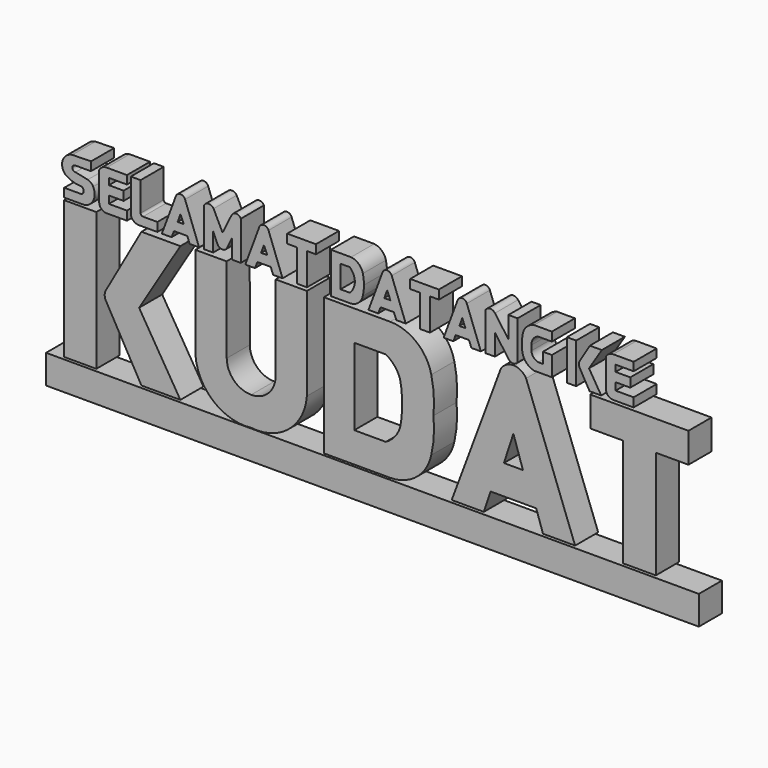
from build123d import *

# Parameters (mm, degrees)
F0_W     = 678.609132
F0_H     = 2916.155696
F1_DEPTH = 609.6
F2_W     = 13791.792393
F2_H     = 609.6
F3_DEPTH = 609.6
F4_W     = 195.712566
F4_H     = 849.251985
F5_DEPTH = 609.6


with BuildPart() as f1:
    # F0 (on Front) → F1 (new body)
    with BuildSketch(Plane.XZ):
        with Locations((-3908.644557, 276.817501)):
            Rectangle(F0_W, F0_H)
        with BuildLine():
            Line((-3366.346836, 151.635244), (-2615.553379, -1181.260347))
            Line((-2615.553379, -1181.260347), (-1793.18583, -1181.260347))
            Line((-1793.18583, -1181.260347), (-2665.179014, 248.686131))
            Line((-2665.179014, 248.686131), (-1793.18583, 1678.632609))
            Line((-1793.18583, 1678.632609), (-2615.553379, 1678.632609))
            Line((-2615.553379, 1678.632609), (-3366.346836, 345.737018))
            ThreePointArc((-3366.346836, 345.737018), (-3391.800139, 248.686131), (-3366.346836, 151.635244))
        make_face()
        with BuildLine():
            Line((879.752576, -240.622833), (879.752576, 1714.225769))
            Line((879.752576, 1714.225769), (218.23296, 1714.225769))
            Line((218.23296, 1714.225769), (218.23296, -87.552883))
            ThreePointArc((218.23296, -87.552883), (67.10783, -450.832205), (-297.087213, -599.737013))
            ThreePointArc((-297.087213, -599.737013), (-661.494143, -451.351503), (-813.136962, -88.287974))
            Line((-813.136962, -88.287974), (-815.705334, 1713.488847))
            Line((-815.705334, 1713.488847), (-1477.224279, 1712.545874))
            Line((-1477.224279, 1712.545874), (-1474.437711, -242.300742))
            ThreePointArc((-1474.437711, -242.300742), (-1093.128933, -979.705324), (-296.649577, -1213.762017))
            ThreePointArc((-296.649577, -1213.762017), (499.495331, -978.570208), (879.752576, -240.622833))
        make_face()
        with BuildLine():
            Line((1236.831784, 1714.225769), (1236.831784, -1188.639283))
            Line((1236.831784, -1188.639283), (2637.341022, -1188.639283))
            ThreePointArc((2637.341022, -1188.639283), (3197.163509, -990.660233), (3508.059978, -484.754801))
            ThreePointArc((3508.059978, -484.754801), (3561.917515, -112.886571), (3554.755688, 262.793243))
            ThreePointArc((3554.755688, 262.793243), (3561.917515, 638.473057), (3508.059978, 1010.341287))
            ThreePointArc((3508.059978, 1010.341287), (3197.163509, 1516.246718), (2637.341022, 1714.225769))
            Line((2637.341022, 1714.225769), (1236.831784, 1714.225769))
        make_face()
        with BuildLine():
            ThreePointArc((2889.63598, 262.793243), (2882.481981, 35.581484), (2849.133015, -189.283386))
            ThreePointArc((2849.133015, -189.283386), (2732.39236, -397.606673), (2548.7957, -550.313056))
            Line((2548.7957, -550.313056), (1880.977988, -550.313056))
            Line((1880.977988, -550.313056), (1880.977988, 1075.899541))
            Line((1880.977988, 1075.899541), (2548.7957, 1075.899541))
            ThreePointArc((2548.7957, 1075.899541), (2732.39236, 923.193159), (2849.133015, 714.869872))
            ThreePointArc((2849.133015, 714.869872), (2882.481981, 490.005002), (2889.63598, 262.793243))
        make_face(mode=Mode.SUBTRACT)
        with BuildLine():
            Line((4618.441582, -1179.439783), (4761.306763, -753.343284))
            Line((4761.306763, -753.343284), (5725.646973, -753.343284))
            Line((5725.646973, -753.343284), (5868.512154, -1179.439783))
            Line((5868.512154, -1179.439783), (6547.121525, -1179.439783))
            Line((6547.121525, -1179.439783), (5511.349201, 1595.393896))
            ThreePointArc((5511.349201, 1595.393896), (5243.476868, 1750.866842), (4975.604534, 1595.393896))
            Line((4975.604534, 1595.393896), (3939.832211, -1179.439783))
            Line((3939.832211, -1179.439783), (4618.441582, -1179.439783))
        make_face()
        Polygon((5042.622089, -133.183539), (5243.476868, 479.15107), (5444.331646, -133.183539), (5243.476868, -133.183539), align=None, mode=Mode.SUBTRACT)
        Polygon((6867.648602, 1103.121996), (7558.076859, 1103.121996), (7558.076859, -1179.439783), (8251.819611, -1179.439783), (8251.819611, 1103.121996), (8942.247868, 1103.121996), (8942.247868, 1734.895349), (6867.648602, 1734.895349), align=None)
    extrude(amount=F1_DEPTH)


with BuildPart() as f3:
    # F2 (on Front) → F3 (new body)
    with BuildSketch(Plane.XZ):
        with Locations((2265.519857, -1532.571435)):
            Rectangle(F2_W, F2_H)
    extrude(amount=F3_DEPTH)


with BuildPart() as f5:
    # F4 (on Front) → F5 (new body)
    with BuildSketch(Plane.XZ):
        with BuildLine():
            Line((-3683.773518, 2457.029343), (-3679.213762, 2642.457485))
            Line((-3679.213762, 2642.457485), (-4075.94988, 2633.113861))
            ThreePointArc((-4075.94988, 2633.113861), (-4280.386481, 2465.021605), (-4212.825775, 2209.121466))
            ThreePointArc((-4212.825775, 2209.121466), (-4054.076023, 2135.77447), (-3881.351948, 2108.431101))
            ThreePointArc((-3881.351948, 2108.431101), (-3834.39266, 2037.498772), (-3881.351948, 1966.566443))
            Line((-3881.351948, 1966.566443), (-4246.760845, 1966.566443))
            Line((-4246.760845, 1966.566443), (-4246.760845, 1783.861876))
            Line((-4246.760845, 1783.861876), (-3846.960306, 1783.861876))
            ThreePointArc((-3846.960306, 1783.861876), (-3771.86045, 1799.727814), (-3705.095768, 1837.598562))
            ThreePointArc((-3705.095768, 1837.598562), (-3609.604943, 1998.486498), (-3636.312723, 2183.662415))
            ThreePointArc((-3636.312723, 2183.662415), (-3681.536077, 2245.089005), (-3750.234365, 2278.239012))
            Line((-3750.234365, 2278.239012), (-4009.032249, 2332.397461))
            ThreePointArc((-4009.032249, 2332.397461), (-4075.94988, 2392.34846), (-4013.592243, 2457.029343))
            Line((-4013.592243, 2457.029343), (-3683.773518, 2457.029343))
        make_face()
        with BuildLine():
            Line((-2921.702862, 2457.029343), (-2921.702862, 2633.113861))
            Line((-2921.702862, 2633.113861), (-3351.063013, 2633.113861))
            ThreePointArc((-3351.063013, 2633.113861), (-3441.885594, 2608.113552), (-3507.120132, 2540.156126))
            Line((-3507.120132, 2540.156126), (-3507.120132, 1919.949055))
            ThreePointArc((-3507.120132, 1919.949055), (-3455.978602, 1822.766257), (-3353.282928, 1783.861876))
            Line((-3353.282928, 1783.861876), (-2921.702862, 1783.861876))
            Line((-2921.702862, 1783.861876), (-2921.702862, 1972.799897))
            Line((-2921.702862, 1972.799897), (-3303.558588, 1972.799897))
            Line((-3303.558588, 1972.799897), (-3303.558588, 2129.710913))
            Line((-3303.558588, 2129.710913), (-2991.886139, 2129.710913))
            Line((-2991.886139, 2129.710913), (-2991.886139, 2321.013451))
            Line((-2991.886139, 2321.013451), (-3303.558588, 2321.013451))
            Line((-3303.558588, 2321.013451), (-3303.558588, 2457.029343))
            Line((-3303.558588, 2457.029343), (-2921.702862, 2457.029343))
        make_face()
        with BuildLine():
            Line((-2632.838011, 2633.113861), (-2839.544535, 2633.113861))
            Line((-2839.544535, 2633.113861), (-2839.544535, 1914.986849))
            ThreePointArc((-2839.544535, 1914.986849), (-2776.133583, 1820.407497), (-2668.288231, 1783.861876))
            Line((-2668.288231, 1783.861876), (-2277.902126, 1783.861876))
            Line((-2277.902126, 1783.861876), (-2277.902126, 1970.519423))
            Line((-2277.902126, 1970.519423), (-2583.126307, 1970.519423))
            ThreePointArc((-2583.126307, 1970.519423), (-2618.209222, 1984.362227), (-2632.838011, 2019.124746))
            Line((-2632.838011, 2019.124746), (-2632.838011, 2633.113861))
        make_face()
        with BuildLine():
            Line((-1887.942195, 2578.846693), (-2184.456587, 1783.861876))
            Line((-2184.456587, 1783.861876), (-1979.963899, 1783.861876))
            Line((-1979.963899, 1783.861876), (-1928.840756, 1914.986849))
            Line((-1928.840756, 1914.986849), (-1647.663116, 1914.986849))
            Line((-1647.663116, 1914.986849), (-1596.539974, 1783.861876))
            Line((-1596.539974, 1783.861876), (-1397.159457, 1783.861876))
            Line((-1397.159457, 1783.861876), (-1693.673968, 2578.846693))
            ThreePointArc((-1693.673968, 2578.846693), (-1790.808082, 2646.288073), (-1887.942195, 2578.846693))
        make_face()
        Polygon((-1849.929214, 2110.574421), (-1790.808082, 2276.072979), (-1720.937079, 2110.574421), align=None, mode=Mode.SUBTRACT)
        with BuildLine():
            Line((-1293.296933, 2604.823828), (-1293.296933, 1783.861876))
            Line((-1293.296933, 1783.861876), (-1099.845052, 1783.861876))
            Line((-1099.845052, 1783.861876), (-1099.845052, 2178.771496))
            Line((-1099.845052, 2178.771496), (-1007.979631, 1970.519423))
            ThreePointArc((-1007.979631, 1970.519423), (-906.146258, 1904.139548), (-804.312885, 1970.519423))
            Line((-804.312885, 1970.519423), (-703.320384, 2178.771496))
            Line((-703.320384, 2178.771496), (-703.320384, 1782.01139))
            Line((-703.320384, 1782.01139), (-514.961064, 1782.01139))
            Line((-514.961064, 1782.01139), (-514.961064, 2604.823828))
            ThreePointArc((-514.961064, 2604.823828), (-613.37322, 2666.025174), (-711.785376, 2604.823828))
            Line((-711.785376, 2604.823828), (-902.322352, 2218.385458))
            Line((-902.322352, 2218.385458), (-1091.068625, 2604.823828))
            ThreePointArc((-1091.068625, 2604.823828), (-1192.182779, 2660.731088), (-1293.296933, 2604.823828))
        make_face()
        Polygon((464.022815, 2457.304001), (667.069554, 2457.304001), (667.069554, 1782.01139), (881.786942, 1782.01139), (881.786942, 2457.304001), (1070.94276, 2457.304001), (1070.94276, 2645.516157), (464.022815, 2645.516157), align=None)
        with BuildLine():
            Line((-124.675372, 2576.922927), (-421.189764, 1781.938109))
            Line((-421.189764, 1781.938109), (-216.697076, 1781.938109))
            Line((-216.697076, 1781.938109), (-165.573934, 1913.063083))
            Line((-165.573934, 1913.063083), (115.603706, 1913.063083))
            Line((115.603706, 1913.063083), (166.726849, 1781.938109))
            Line((166.726849, 1781.938109), (366.107366, 1781.938109))
            Line((366.107366, 1781.938109), (69.592854, 2576.922927))
            ThreePointArc((69.592854, 2576.922927), (-27.541259, 2644.364307), (-124.675372, 2576.922927))
        make_face()
        Polygon((-86.662391, 2108.650655), (-27.541259, 2274.149213), (42.329744, 2108.650655), align=None, mode=Mode.SUBTRACT)
        with BuildLine():
            Line((1814.000249, 2646.043777), (1387.090921, 2646.043777))
            Line((1387.090921, 2646.043777), (1387.090921, 1782.01139))
            Line((1387.090921, 1782.01139), (1814.000249, 1782.01139))
            ThreePointArc((1814.000249, 1782.01139), (1973.739158, 1853.606115), (2061.742306, 2004.926205))
            ThreePointArc((2061.742306, 2004.926205), (2079.62756, 2108.780007), (2084.960699, 2214.027584))
            ThreePointArc((2084.960699, 2214.027584), (2079.62756, 2319.27516), (2061.742306, 2423.128963))
            ThreePointArc((2061.742306, 2423.128963), (1973.739158, 2574.449053), (1814.000249, 2646.043777))
        make_face()
        with BuildLine():
            Line((1590.371013, 1975.717902), (1590.371013, 2214.027584))
            Line((1590.371013, 2214.027584), (1590.371013, 2452.337265))
            Line((1590.371013, 2452.337265), (1786.438346, 2452.337265))
            ThreePointArc((1786.438346, 2452.337265), (1864.515897, 2344.10508), (1894.351363, 2214.027584))
            ThreePointArc((1894.351363, 2214.027584), (1864.515897, 2083.950088), (1786.438346, 1975.717902))
            Line((1786.438346, 1975.717902), (1590.371013, 1975.717902))
        make_face(mode=Mode.SUBTRACT)
        with BuildLine():
            Line((7783.498764, 2465.106249), (7783.498764, 2641.190767))
            Line((7783.498764, 2641.190767), (7354.138613, 2641.190767))
            ThreePointArc((7354.138613, 2641.190767), (7263.316032, 2616.190458), (7198.081493, 2548.233032))
            Line((7198.081493, 2548.233032), (7198.081493, 1928.025961))
            ThreePointArc((7198.081493, 1928.025961), (7249.223024, 1830.843163), (7351.918697, 1791.938782))
            Line((7351.918697, 1791.938782), (7783.498764, 1791.938782))
            Line((7783.498764, 1791.938782), (7783.498764, 1980.876803))
            Line((7783.498764, 1980.876803), (7401.643038, 1980.876803))
            Line((7401.643038, 1980.876803), (7401.643038, 2137.787819))
            Line((7401.643038, 2137.787819), (7713.315487, 2137.787819))
            Line((7713.315487, 2137.787819), (7713.315487, 2329.090357))
            Line((7713.315487, 2329.090357), (7401.643038, 2329.090357))
            Line((7401.643038, 2329.090357), (7401.643038, 2465.106249))
            Line((7401.643038, 2465.106249), (7783.498764, 2465.106249))
        make_face()
        with BuildLine():
            Line((2478.46067, 2581.276655), (2181.946278, 1786.291838))
            Line((2181.946278, 1786.291838), (2386.438966, 1786.291838))
            Line((2386.438966, 1786.291838), (2437.562108, 1917.416811))
            Line((2437.562108, 1917.416811), (2718.739748, 1917.416811))
            Line((2718.739748, 1917.416811), (2769.86289, 1786.291838))
            Line((2769.86289, 1786.291838), (2969.243407, 1786.291838))
            Line((2969.243407, 1786.291838), (2672.728896, 2581.276655))
            ThreePointArc((2672.728896, 2581.276655), (2575.594783, 2648.718035), (2478.46067, 2581.276655))
        make_face()
        Polygon((2516.473651, 2113.004383), (2575.594783, 2278.502941), (2645.465786, 2113.004383), align=None, mode=Mode.SUBTRACT)
        Polygon((3061.757386, 2459.395528), (3264.804125, 2459.395528), (3264.804125, 1784.102917), (3479.521513, 1784.102917), (3479.521513, 2459.395528), (3668.67733, 2459.395528), (3668.67733, 2647.607684), (3061.757386, 2647.607684), align=None)
        with BuildLine():
            Line((4065.066457, 2579.260468), (3768.552065, 1784.275651))
            Line((3768.552065, 1784.275651), (3973.044753, 1784.275651))
            Line((3973.044753, 1784.275651), (4024.167895, 1915.400624))
            Line((4024.167895, 1915.400624), (4305.345535, 1915.400624))
            Line((4305.345535, 1915.400624), (4356.468678, 1784.275651))
            Line((4356.468678, 1784.275651), (4555.849195, 1784.275651))
            Line((4555.849195, 1784.275651), (4259.334683, 2579.260468))
            ThreePointArc((4259.334683, 2579.260468), (4162.20057, 2646.701849), (4065.066457, 2579.260468))
        make_face()
        Polygon((4103.079438, 2110.988196), (4162.20057, 2276.486754), (4232.071573, 2110.988196), align=None, mode=Mode.SUBTRACT)
        with BuildLine():
            Line((6852.911472, 1791.938782), (7098.690987, 1791.938782))
            Line((7098.690987, 1791.938782), (6841.23373, 2213.738441))
            Line((6841.23373, 2213.738441), (7110.964298, 2641.190767))
            Line((7110.964298, 2641.190767), (6858.357906, 2641.190767))
            Line((6858.357906, 2641.190767), (6641.833782, 2281.305313))
            ThreePointArc((6641.833782, 2281.305313), (6625.27862, 2221.67623), (6641.833782, 2162.047148))
            Line((6641.833782, 2162.047148), (6852.911472, 1791.938782))
        make_face()
        with BuildLine():
            Line((4656.714439, 2593.385458), (4656.714439, 1784.275651))
            Line((4656.714439, 1784.275651), (4851.907253, 1784.275651))
            Line((4851.907253, 1784.275651), (4851.907253, 2232.744694))
            Line((4851.907253, 2232.744694), (5145.143509, 1830.312252))
            ThreePointArc((5145.143509, 1830.312252), (5238.433838, 1782.859757), (5331.724167, 1830.312252))
            Line((5331.724167, 1830.312252), (5331.724167, 2652.77648))
            Line((5331.724167, 2652.77648), (5138.208389, 2652.77648))
            Line((5138.208389, 2652.77648), (5138.208389, 2199.769735))
            Line((5138.208389, 2199.769735), (4854.08783, 2593.385458))
            ThreePointArc((4854.08783, 2593.385458), (4755.401134, 2643.861448), (4656.714439, 2593.385458))
        make_face()
        with Locations((6471.446276, 2216.564775)):
            Rectangle(F4_W, F4_H)
        with BuildLine():
            Line((6055.675507, 2454.828739), (6055.675507, 2641.190767))
            Line((6055.675507, 2641.190767), (5681.665897, 2641.190767))
            ThreePointArc((5681.665897, 2641.190767), (5516.635418, 2550.211481), (5437.021732, 2379.407644))
            ThreePointArc((5437.021732, 2379.407644), (5420.782419, 2232.042268), (5429.779053, 2084.058046))
            ThreePointArc((5429.779053, 2084.058046), (5508.421537, 1897.212045), (5681.665897, 1791.938782))
            Line((5681.665897, 1791.938782), (6055.675507, 1791.938782))
            Line((6055.675507, 1791.938782), (6055.675507, 2205.818415))
            Line((6055.675507, 2205.818415), (5866.341114, 2205.818415))
            Line((5866.341114, 2205.818415), (5866.341114, 1978.447199))
            Line((5866.341114, 1978.447199), (5768.836498, 1978.447199))
            ThreePointArc((5768.836498, 1978.447199), (5668.836185, 2036.449807), (5625.434399, 2143.597603))
            Line((5625.434399, 2143.597603), (5625.434399, 2251.875639))
            ThreePointArc((5625.434399, 2251.875639), (5661.360395, 2378.630038), (5768.836498, 2454.828739))
            Line((5768.836498, 2454.828739), (6055.675507, 2454.828739))
        make_face()
    extrude(amount=F5_DEPTH)


solid = Compound([f1.part, f3.part, f5.part])
